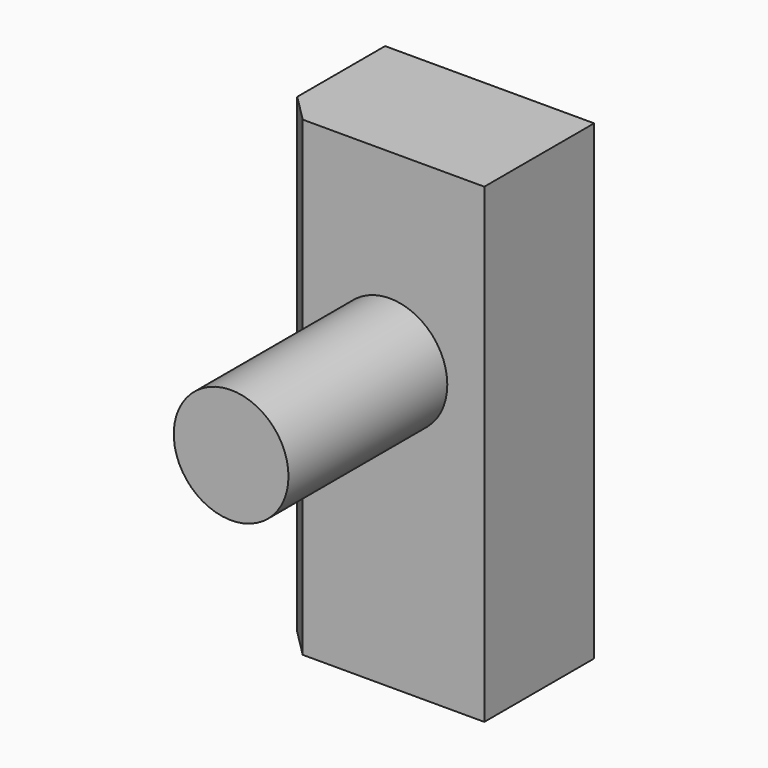
from build123d import *

# Parameters (mm, degrees)
F0_W     = 38.677551
F0_H     = 87.183475
F1_DEPTH = 25.4
F2_R     = 10.61277
F3_DEPTH = 36.733858
F4_SIZE  = 5.08


with BuildPart() as f1:
    # F0 (on Front) → F1 (new body)
    with BuildSketch(Plane.XZ):
        with Locations((39.677791, 5.360209)):
            Rectangle(F0_W, F0_H)
    extrude(amount=F1_DEPTH)

    # F2 (on face) → F3 (join)
    with BuildSketch(Plane.XZ.offset(25.4)):
        with Locations((41.557305, 14.468271)):
            Circle(F2_R)
    extrude(amount=F3_DEPTH)

    # F4
    f4_edges = [f1.edges().sort_by_distance(p)[0] for p in [
        (20.339016, -25.4, 5.360208),
    ]]
    chamfer(f4_edges, length=F4_SIZE)


solid = f1.part
